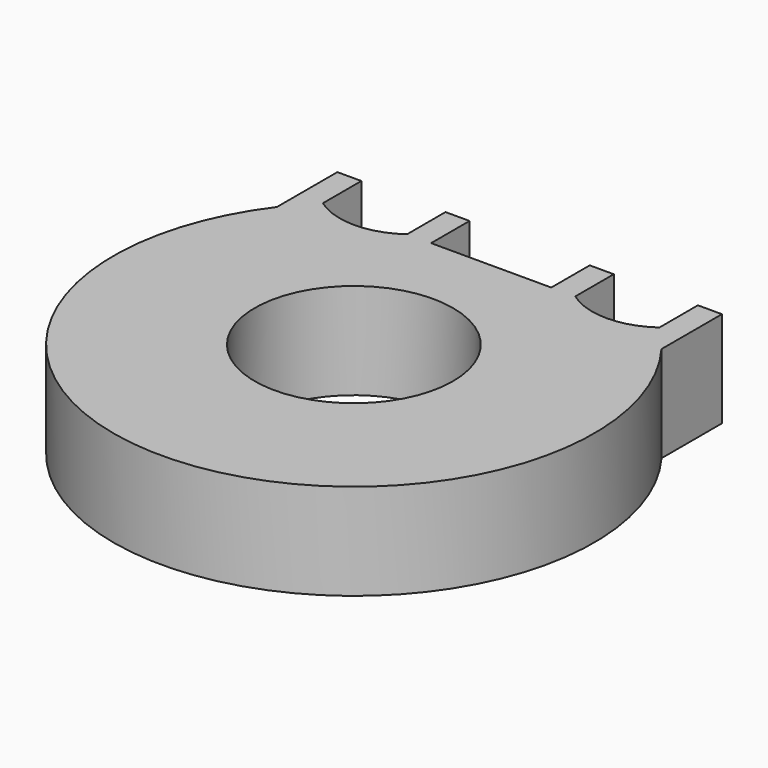
from build123d import *

# Parameters (mm, degrees)
F0_R     = 8.25
F1_DEPTH = 8


with BuildPart() as f1:
    # F0 (on Top) → F1 (new body)
    with BuildSketch(Plane.XY):
        with BuildLine():
            Line((-16, 18.282857), (-16, 12))
            ThreePointArc((-16, 12), (0, -20), (16, 12))
            Line((16, 12), (16, 18.282857))
            Line((16, 18.282857), (14, 18.282857))
            Line((14, 18.282857), (14, 14.282857))
            ThreePointArc((14, 14.282857), (10.5, 13.156254), (7, 14.282857))
            Line((7, 14.282857), (7, 18.282857))
            Line((7, 18.282857), (5, 18.282857))
            Line((5, 18.282857), (5, 14.282857))
            Line((5, 14.282857), (0, 14.282857))
            Line((0, 14.282857), (-5, 14.282857))
            Line((-5, 14.282857), (-5, 18.282857))
            Line((-5, 18.282857), (-7, 18.282857))
            Line((-7, 18.282857), (-7, 14.282857))
            ThreePointArc((-7, 14.282857), (-10.5, 13.156254), (-14, 14.282857))
            Line((-14, 14.282857), (-14, 18.282857))
            Line((-14, 18.282857), (-16, 18.282857))
        make_face()
        Circle(F0_R, mode=Mode.SUBTRACT)
    extrude(amount=F1_DEPTH)


solid = f1.part
